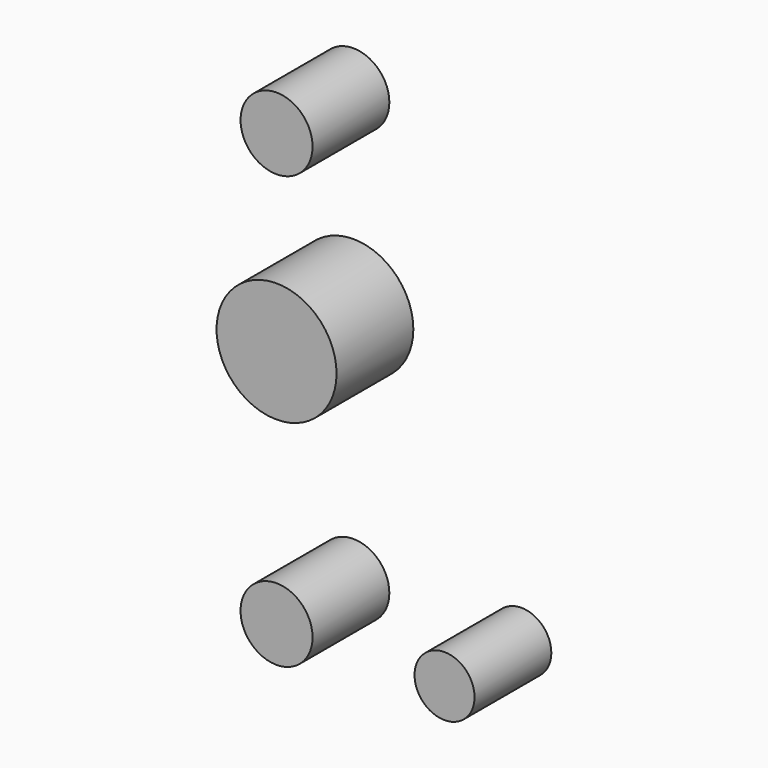
from build123d import *

# Parameters (mm, degrees)
F0_R     = 15.875
F0_R_2   = 9.525
F0_R_3   = 7.9375
F2_DEPTH = 25.4
F3_W     = 87.540354
F3_H     = 137.664266
F4_DEPTH = 25.4


with BuildPart() as f2:
    # F0 (on Front) → F2 (new body)
    with BuildSketch(Plane.XZ):
        Circle(F0_R)
        with Locations((0, 50.8)):
            Circle(F0_R_2)
        with Locations((0, -63.5)):
            Circle(F0_R_2)
        with Locations((44.45, -63.5)):
            Circle(F0_R_3)
    extrude(amount=F2_DEPTH)

    # F3 (on Front) → F4 (cut)
    with BuildSketch(Plane.XZ):
        with Locations((13.648765, -5.765427)):
            Rectangle(F3_W, F3_H)
    extrude(amount=-F4_DEPTH, mode=Mode.SUBTRACT)


solid = f2.part
